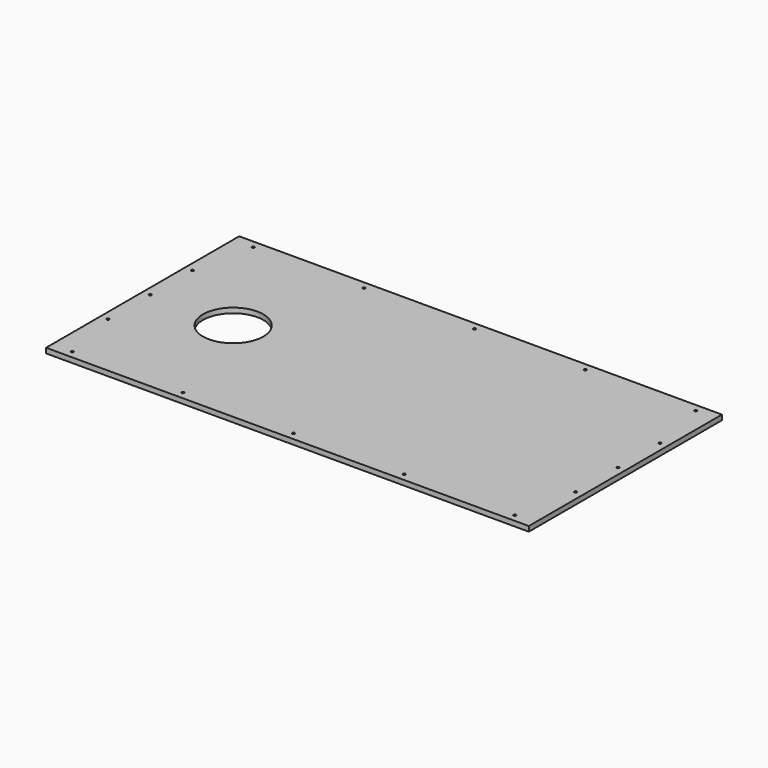
from build123d import *

# Parameters (mm, degrees)
F0_W     = 1219.2
F0_H     = 609.6
F1_DEPTH = 12.7
F2_D     = 152.4
F3_D     = 6.35


with BuildPart() as f1:
    # F0 (on Top) → F1 (new body)
    with BuildSketch(Plane.XY):
        Rectangle(F0_W, F0_H)
    extrude(amount=F1_DEPTH)

    # F2 (through all)
    with Locations(Plane(origin=(0, 0, 0), x_dir=(1, 0, 0), z_dir=(0, 0, -1))):
        with Locations((-381, 0)):
            Hole(F2_D / 2)

    # F3 (through all)
    with Locations(Plane(origin=(0, 0, 0), x_dir=(1, 0, 0), z_dir=(0, 0, -1))):
        with Locations((-558.8, 285.75), (-279.4, 285.75), (0, 285.75), (279.4, 285.75), (558.8, 285.75), (558.8, -285.75), (279.4, -285.75), (0, -285.75), (-279.4, -285.75), (-558.8, -285.75), (-590.55, 133.35), (-590.55, 0), (-590.55, -133.35), (590.55, 133.35), (590.55, 0), (590.55, -133.35)):
            Hole(F3_D / 2)


solid = f1.part
